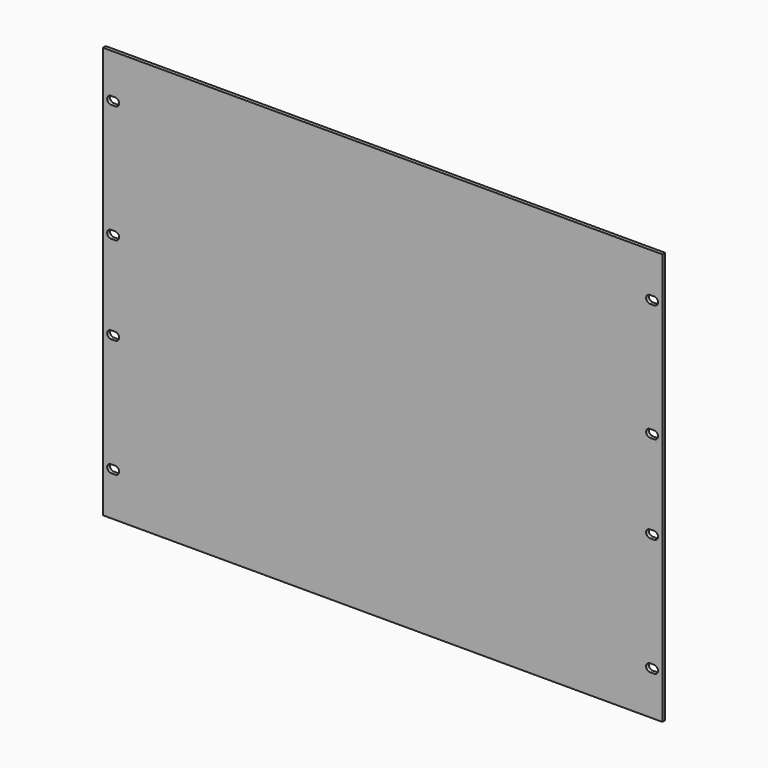
from build123d import *

# Parameters (mm, degrees)
F0_W      = 482.6
F0_H      = 355.2
F1_DEPTH  = 3
F2_W      = 3.5
F2_H      = 6.8
F3_W      = 3.5
F3_H      = 6.8
F4_W      = 3.5
F4_H      = 6.8
F5_W      = 3.5
F5_H      = 6.8
F6_DEPTH  = 3
F7_W      = 3.5
F7_H      = 6.8
F8_W      = 3.5
F8_H      = 6.8
F9_W      = 3.5
F9_H      = 6.8
F10_W     = 3.5
F10_H     = 6.8
F11_DEPTH = 3


with BuildPart() as f1:
    # F0 (on Front) → F1 (new body)
    with BuildSketch(Plane.XZ):
        Rectangle(F0_W, F0_H)
    extrude(amount=-F1_DEPTH)

    # F2 (on face) + F3 (on face) + F4 (on face) + F5 (on face) → F6 (cut)
    with BuildSketch(Plane.XZ):
        with Locations((-232.5, 139.9)):
            Rectangle(F2_W, F2_H)
        with BuildLine():
            Line((-230.75, 143.3), (-230.75, 136.5))
            ThreePointArc((-230.75, 136.5), (-227.35, 139.9), (-230.75, 143.3))
        make_face()
        with BuildLine():
            ThreePointArc((-234.25, 143.3), (-237.65, 139.9), (-234.25, 136.5))
            Line((-234.25, 136.5), (-234.25, 143.3))
        make_face()
    with BuildSketch(Plane.XZ):
        with Locations((-232.5, 38.15)):
            Rectangle(F3_W, F3_H)
        with BuildLine():
            Line((-230.75, 41.55), (-230.75, 34.75))
            ThreePointArc((-230.75, 34.75), (-227.35, 38.15), (-230.75, 41.55))
        make_face()
        with BuildLine():
            ThreePointArc((-234.25, 41.55), (-237.65, 38.15), (-234.25, 34.75))
            Line((-234.25, 34.75), (-234.25, 41.55))
        make_face()
    with BuildSketch(Plane.XZ):
        with Locations((-232.5, -38.15)):
            Rectangle(F4_W, F4_H)
        with BuildLine():
            Line((-230.75, -34.75), (-230.75, -41.55))
            ThreePointArc((-230.75, -41.55), (-227.35, -38.15), (-230.75, -34.75))
        make_face()
        with BuildLine():
            ThreePointArc((-234.25, -34.75), (-237.65, -38.15), (-234.25, -41.55))
            Line((-234.25, -41.55), (-234.25, -34.75))
        make_face()
    with BuildSketch(Plane.XZ):
        with Locations((-232.5, -139.9)):
            Rectangle(F5_W, F5_H)
        with BuildLine():
            Line((-234.25, -143.3), (-234.25, -136.5))
            ThreePointArc((-234.25, -136.5), (-237.65, -139.9), (-234.25, -143.3))
        make_face()
        with BuildLine():
            ThreePointArc((-230.75, -143.3), (-227.35, -139.9), (-230.75, -136.5))
            Line((-230.75, -136.5), (-230.75, -143.3))
        make_face()
    extrude(amount=-F6_DEPTH, mode=Mode.SUBTRACT)

    # F7 (on face) + F8 (on face) + F9 (on face) + F10 (on face) → F11 (cut)
    with BuildSketch(Plane.XZ):
        with Locations((232.5, 139.9)):
            Rectangle(F7_W, F7_H)
        with BuildLine():
            Line((234.25, 143.3), (234.25, 136.5))
            ThreePointArc((234.25, 136.5), (237.65, 139.9), (234.25, 143.3))
        make_face()
        with BuildLine():
            ThreePointArc((230.75, 143.3), (227.35, 139.9), (230.75, 136.5))
            Line((230.75, 136.5), (230.75, 143.3))
        make_face()
    with BuildSketch(Plane.XZ):
        with Locations((232.5, 38.15)):
            Rectangle(F8_W, F8_H)
        with BuildLine():
            Line((234.25, 41.55), (234.25, 34.75))
            ThreePointArc((234.25, 34.75), (237.65, 38.15), (234.25, 41.55))
        make_face()
        with BuildLine():
            ThreePointArc((230.75, 41.55), (227.35, 38.15), (230.75, 34.75))
            Line((230.75, 34.75), (230.75, 41.55))
        make_face()
    with BuildSketch(Plane.XZ):
        with Locations((232.5, -38.15)):
            Rectangle(F9_W, F9_H)
        with BuildLine():
            Line((234.25, -34.75), (234.25, -41.55))
            ThreePointArc((234.25, -41.55), (237.65, -38.15), (234.25, -34.75))
        make_face()
        with BuildLine():
            ThreePointArc((230.75, -34.75), (227.35, -38.15), (230.75, -41.55))
            Line((230.75, -41.55), (230.75, -34.75))
        make_face()
    with BuildSketch(Plane.XZ):
        with Locations((232.5, -139.9)):
            Rectangle(F10_W, F10_H)
        with BuildLine():
            Line((234.25, -136.5), (234.25, -143.3))
            ThreePointArc((234.25, -143.3), (237.65, -139.9), (234.25, -136.5))
        make_face()
        with BuildLine():
            ThreePointArc((230.75, -136.5), (227.35, -139.9), (230.75, -143.3))
            Line((230.75, -143.3), (230.75, -136.5))
        make_face()
    extrude(amount=-F11_DEPTH, mode=Mode.SUBTRACT)


solid = f1.part
